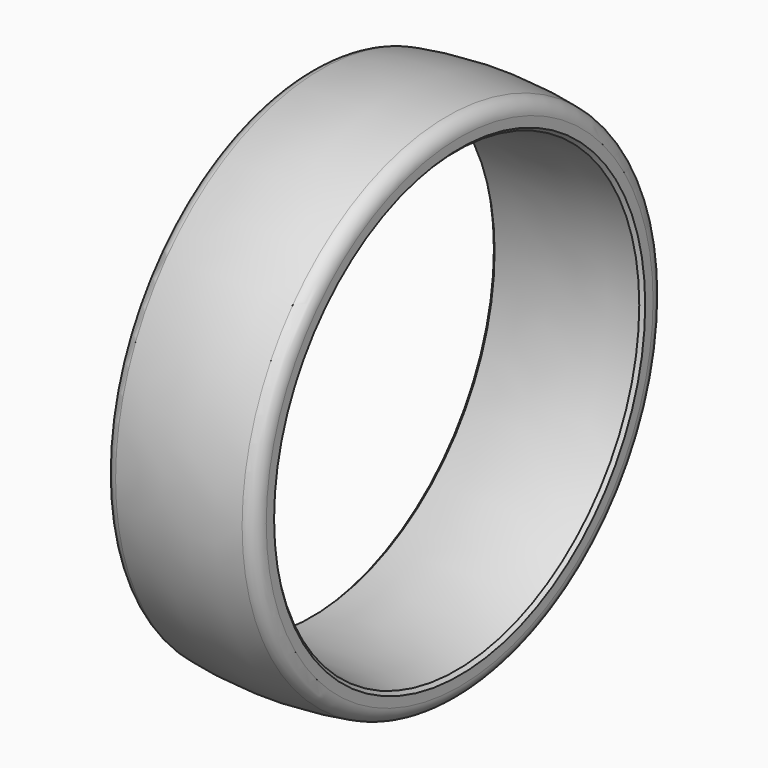
from build123d import *


with BuildPart() as part:
    # Sketch → Revolution (revolve)
    with BuildSketch(Plane.XY):
        with BuildLine():
            Line((0, -996.589076), (0, -1038.758458))
            ThreePointArc((0, -1038.758458), (15.078611, -1080.022215), (53.209302, -1101.842219))
            ThreePointArc((53.209302, -1101.842219), (325, -1124.92), (596.790698, -1101.842219))
            ThreePointArc((596.790698, -1101.842219), (634.921389, -1080.022215), (650, -1038.758458))
            Line((650, -996.589076), (650, -1038.758458))
            Line((635.857857, -982.446948), (650, -996.589076))
            ThreePointArc((635.857857, -982.446948), (325, -954.92), (14.142143, -982.446948))
            Line((14.142143, -982.446948), (0, -996.589076))
        make_face()
    revolve(axis=Axis((0, 0, 0), (1, 0, 0)))


solid = part.part
